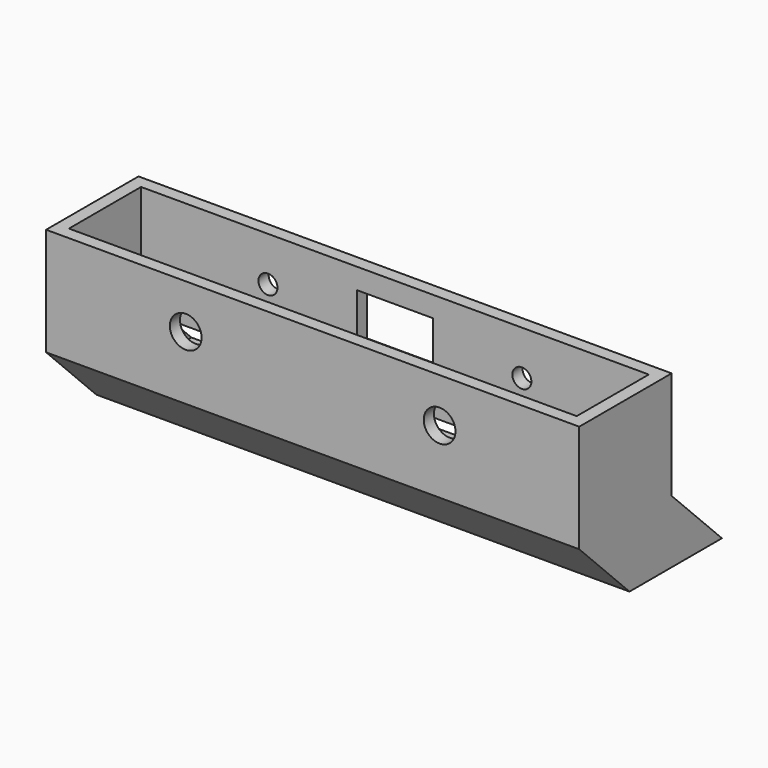
from build123d import *

# Parameters (mm, degrees)
F0_W           = 84
F0_H           = 18.2
F0_W_2         = 80
F0_H_2         = 14.2
F1_DEPTH       = 17
F3_D           = 3
F3_CBORE_D     = 5
F3_CBORE_DEPTH = 5
F4_W           = 12
F4_H           = 7.5
F5_DEPTH       = 2
F7_DEPTH       = 2
F9_DEPTH       = 2
F11_DEPTH      = 80
F13_DEPTH      = 80


with BuildPart() as f1:
    # F0 (on Top) → F1 (new body)
    with BuildSketch(Plane.XY):
        Rectangle(F0_W, F0_H)
        Rectangle(F0_W_2, F0_H_2, mode=Mode.SUBTRACT)
    extrude(amount=F1_DEPTH)

    # F3 (through all)
    with Locations(Plane.XZ.offset(9.1)):
        with Locations((-20, 10), (20, 10)):
            CounterBoreHole(F3_D / 2, F3_CBORE_D / 2, F3_CBORE_DEPTH)

    # F4 (on face) → F5 (cut)
    with BuildSketch(Plane(origin=(0, 9.1, 0), x_dir=(-1, 0, 0), z_dir=(0, 1, 0))):
        with Locations((0, 10)):
            Rectangle(F4_W, F4_H)
    extrude(amount=-F5_DEPTH, mode=Mode.SUBTRACT)

    # F6 (on face) → F7 (join)
    with BuildSketch(Plane(origin=(-42, 0, 0), x_dir=(0, -1, 0), z_dir=(-1, 0, 0))):
        Polygon((9.1, 0), (-9.1, 0), (-18.999495, -9.899495), (-0.799495, -9.899495), align=None)
    extrude(amount=-F7_DEPTH)

    # F8 (on face) → F9 (join)
    with BuildSketch(Plane.YZ.offset(42)):
        Polygon((9.1, 0), (-9.1, 0), (0.799495, -9.899495), (18.999495, -9.899495), align=None)
    extrude(amount=-F9_DEPTH)

    # F10 (on face) → F11 (join)
    with BuildSketch(Plane(origin=(40, 0, 0), x_dir=(0, -1, 0), z_dir=(-1, 0, 0))):
        Polygon((9.1, 0), (7.1, 0), (-2.799495, -9.899495), (-0.799495, -9.899495), align=None)
    extrude(amount=F11_DEPTH)

    # F12 (on face) → F13 (join)
    with BuildSketch(Plane(origin=(40, 0, 0), x_dir=(0, -1, 0), z_dir=(-1, 0, 0))):
        Polygon((-0.799495, -7.899495), (-16.999495, -7.899495), (-18.999495, -9.899495), (-2.799495, -9.899495), align=None)
    extrude(amount=F13_DEPTH)


solid = f1.part
